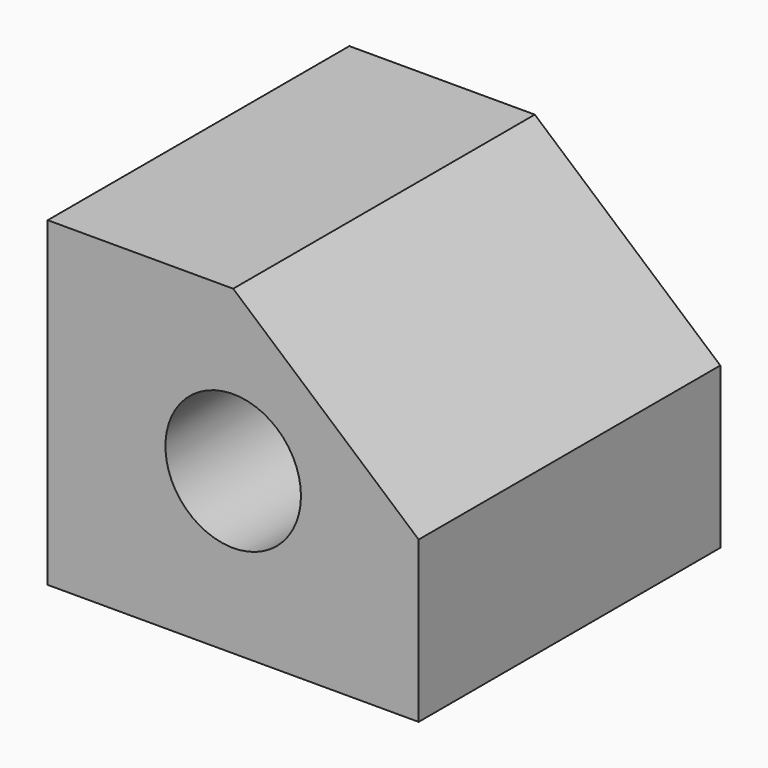
from build123d import *

# Parameters (mm, degrees)
F0_W     = 89.054606
F0_H     = 77.087894
F1_DEPTH = 45.2606
F3_DEPTH = 90.5222
F4_R     = 16.270779
F5_DEPTH = 46.09548


with BuildPart() as f1:
    # F0 (on Front) → F1 (new body, symmetric)
    with BuildSketch(Plane.XZ):
        Rectangle(F0_W, F0_H)
    extrude(amount=F1_DEPTH, both=True)

    # F2 (on face) → F3 (cut, through all)
    with BuildSketch(Plane.XZ.offset(45.2606)):
        Polygon((44.527303, 38.543947), (0, 38.543947), (44.527303, 0), align=None)
    extrude(amount=-F3_DEPTH, mode=Mode.SUBTRACT)

    # F4 (on Front) → F5 (cut, symmetric)
    with BuildSketch(Plane.XZ):
        Circle(F4_R)
    extrude(amount=F5_DEPTH, both=True, mode=Mode.SUBTRACT)


solid = f1.part
